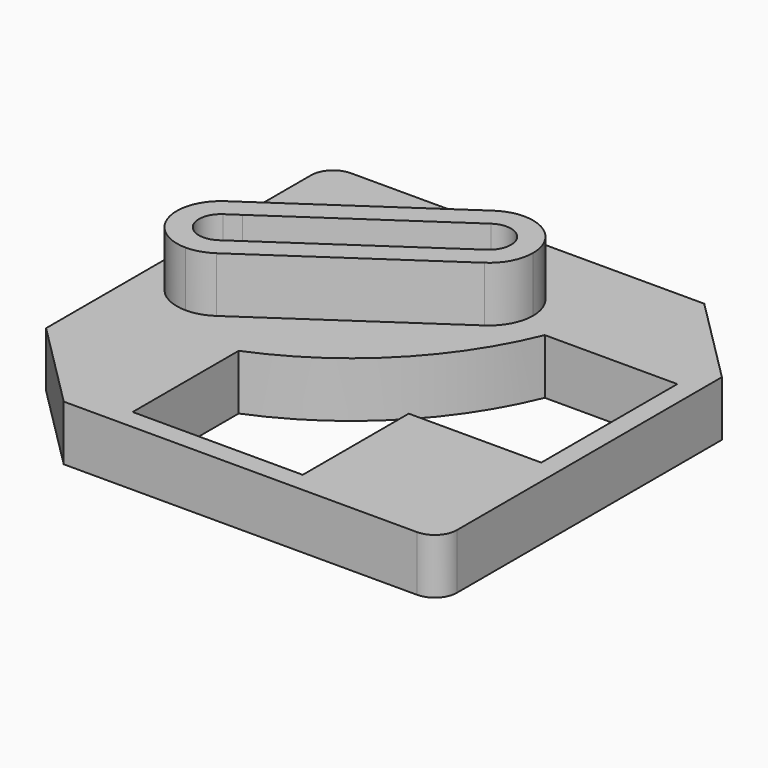
from build123d import *

# Parameters (mm, degrees)
F1_DEPTH = 25
F2_DEPTH = 25
F3_DEPTH = 50


with BuildPart() as f1:
    # F0 (on Top) → F1 (new body)
    with BuildSketch(Plane.XY):
        with BuildLine():
            Line((0, 40), (30, 10))
            Line((30, 10), (30, 81.5))
            ThreePointArc((30, 81.5), (10.8880211383, 95.6065914796), (18.7365300935, 118.0267736012))
            Line((18.7365300935, 118.0267736012), (30, 125.7031511808))
            Line((30, 125.7031511808), (30, 155))
            Line((30, 155), (72.9869650899, 155))
            Line((72.9869650899, 155), (97.2365300935, 171.5267736012))
            ThreePointArc((97.2365300935, 171.5267736012), (117.846940726, 172.6814789841), (128.5, 155))
            Line((128.5, 155), (210, 155))
            Line((210, 155), (210, 160))
            Line((210, 160), (170, 200))
            Line((170, 200), (10, 200))
            ThreePointArc((10, 200), (2.9289321881, 197.0710678119), (0, 190))
            Line((0, 190), (0, 40))
        make_face()
        with BuildLine():
            Line((30, 10), (40, 0))
            Line((40, 0), (57.8877478838, 0))
            Line((57.8877478838, 0), (141, 0))
            Line((141, 0), (141, 9))
            Line((141, 9), (64, 9))
            Line((64, 9), (64, 69))
            ThreePointArc((64, 69), (110.2494154358, 99.7505845642), (141, 146))
            Line((141, 146), (201, 146))
            Line((201, 146), (201, 89.5927730799))
            Line((201, 89.5927730799), (210, 89.5927730799))
            Line((210, 89.5927730799), (210, 109.1042194366))
            Line((210, 109.1042194366), (210, 155))
            Line((210, 155), (128.5, 155))
            ThreePointArc((128.5, 155), (126.1814789841, 145.653059274), (119.7634699065, 138.4732263988))
            Line((119.7634699065, 138.4732263988), (41.2634699065, 84.9732263988))
            ThreePointArc((41.2634699065, 84.9732263988), (35.8934085204, 82.3880211383), (30, 81.5))
            Line((30, 81.5), (30, 10))
        make_face()
        with BuildLine():
            Line((141, 9), (141, 0))
            Line((141, 0), (161.8052124977, 0))
            Line((161.8052124977, 0), (200, 0))
            ThreePointArc((200, 0), (207.0710678119, 2.9289321881), (210, 10))
            Line((210, 10), (210, 89.5927730799))
            Line((210, 89.5927730799), (201, 89.5927730799))
            Line((201, 89.5927730799), (201, 69))
            Line((201, 69), (141, 69))
            Line((141, 69), (141, 9))
        make_face()
        Polygon((30, 155), (30, 125.7031511808), (72.9869650899, 155), align=None)
    extrude(amount=F1_DEPTH)


with BuildPart() as f2:
    # F0 (on Top) → F2 (new body)
    with BuildSketch(Plane.XY):
        with BuildLine():
            Line((30, 113.6015755904), (30, 91.5))
            ThreePointArc((30, 91.5), (32.9467042602, 91.9440105691), (35.6317349533, 93.2366131994))
            Line((35.6317349533, 93.2366131994), (114.1317349533, 146.7366131994))
            ThreePointArc((114.1317349533, 146.7366131994), (117.3407394921, 150.326529637), (118.5, 155))
            Line((118.5, 155), (90.7434825449, 155))
            Line((90.7434825449, 155), (30, 113.6015755904))
        make_face()
        with BuildLine():
            ThreePointArc((24.3682650467, 109.7633868006), (20.4440105691, 98.5532957398), (30, 91.5))
            Line((30, 91.5), (30, 113.6015755904))
            Line((30, 113.6015755904), (24.3682650467, 109.7633868006))
        make_face()
        with BuildLine():
            Line((102.8682650467, 163.2633868006), (90.7434825449, 155))
            Line((90.7434825449, 155), (118.5, 155))
            ThreePointArc((118.5, 155), (113.173470363, 163.8407394921), (102.8682650467, 163.2633868006))
        make_face()
    extrude(amount=F2_DEPTH)


with BuildPart() as f3:
    # F0 (on Top) → F3 (new body)
    with BuildSketch(Plane.XY):
        with BuildLine():
            ThreePointArc((18.7365300935, 118.0267736012), (10.8880211383, 95.6065914796), (30, 81.5))
            Line((30, 81.5), (30, 91.5))
            ThreePointArc((30, 91.5), (20.4440105691, 98.5532957398), (24.3682650467, 109.7633868006))
            Line((24.3682650467, 109.7633868006), (30, 113.6015755904))
            Line((30, 113.6015755904), (30, 125.7031511808))
            Line((30, 125.7031511808), (18.7365300935, 118.0267736012))
        make_face()
        with BuildLine():
            Line((30, 91.5), (30, 81.5))
            ThreePointArc((30, 81.5), (35.8934085204, 82.3880211383), (41.2634699065, 84.9732263988))
            Line((41.2634699065, 84.9732263988), (119.7634699065, 138.4732263988))
            ThreePointArc((119.7634699065, 138.4732263988), (126.1814789841, 145.653059274), (128.5, 155))
            Line((128.5, 155), (118.5, 155))
            ThreePointArc((118.5, 155), (117.3407394921, 150.326529637), (114.1317349533, 146.7366131994))
            Line((114.1317349533, 146.7366131994), (35.6317349533, 93.2366131994))
            ThreePointArc((35.6317349533, 93.2366131994), (32.9467042602, 91.9440105691), (30, 91.5))
        make_face()
        with BuildLine():
            Line((72.9869650899, 155), (90.7434825449, 155))
            Line((90.7434825449, 155), (102.8682650467, 163.2633868006))
            ThreePointArc((102.8682650467, 163.2633868006), (113.173470363, 163.8407394921), (118.5, 155))
            Line((118.5, 155), (128.5, 155))
            ThreePointArc((128.5, 155), (117.846940726, 172.6814789841), (97.2365300935, 171.5267736012))
            Line((97.2365300935, 171.5267736012), (72.9869650899, 155))
        make_face()
        Polygon((30, 125.7031511808), (30, 113.6015755904), (90.7434825449, 155), (72.9869650899, 155), align=None)
    extrude(amount=F3_DEPTH)


solid = Compound([f1.part, f2.part, f3.part])
